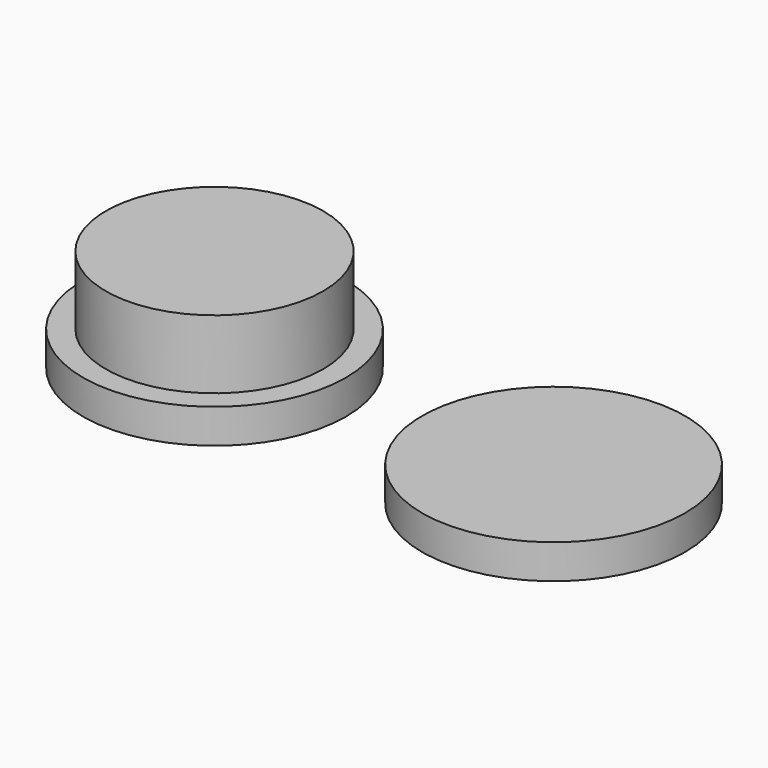
from build123d import *

# Parameters (mm, degrees)
F0_R     = 9.5
F1_DEPTH = 9
F0_R_2   = 11.5
F2_DEPTH = 3
F3_R     = 11.5
F4_DEPTH = 3


with BuildPart() as f1:
    # F0 (on Top) → F1 (new body)
    with BuildSketch(Plane.XY):
        with Locations((-47.320057, -50.018214)):
            Circle(F0_R)
    extrude(amount=F1_DEPTH)

    # F0 (on Top) → F2 (join)
    with BuildSketch(Plane.XY):
        with Locations((-47.320057, -50.018214)):
            Circle(F0_R_2)
        with Locations((-47.320057, -50.018214)):
            Circle(F0_R, mode=Mode.SUBTRACT)
    extrude(amount=F2_DEPTH)


with BuildPart() as f4:
    # F3 (on Top) → F4 (new body)
    with BuildSketch(Plane.XY):
        with Locations((-16.734513, -51.193547)):
            Circle(F3_R)
    extrude(amount=F4_DEPTH)


with BuildPart() as f5_1:
    # F5: copy of F1
    add(f1.part)


solid = Compound([f1.part, f4.part, f5_1.part])
